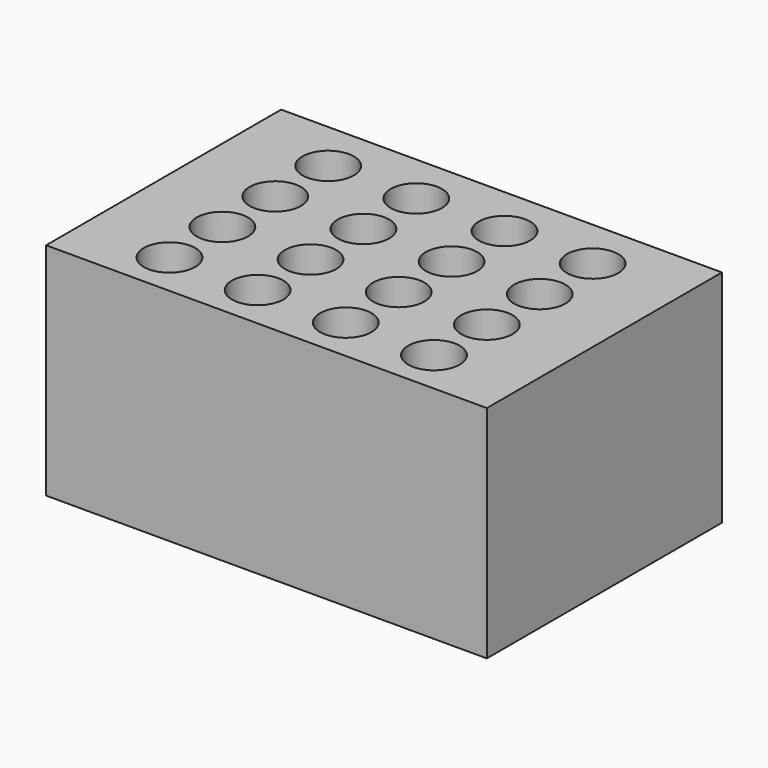
from build123d import *

# Parameters (mm, degrees)
F0_W     = 152.4
F0_H     = 101.6
F0_R     = 8.89
F1_DEPTH = 2.5
F2_DEPTH = 76.2
F4_W     = 142.24
F4_H     = 91.44
F4_R     = 10.16
F5_DEPTH = 69.85


with BuildPart() as f1:
    # F0 (on Top) → F1 (new body)
    with BuildSketch(Plane.XY):
        with Locations((0.2656728029, 1.1231710495)):
            Rectangle(F0_W, F0_H)
        with Locations((-45.4543271971, -34.4368289505)):
            Circle(F0_R, mode=Mode.SUBTRACT)
        with Locations((-14.9743271971, -34.4368289505)):
            Circle(F0_R, mode=Mode.SUBTRACT)
        with Locations((-45.4543271971, -11.5768289505)):
            Circle(F0_R, mode=Mode.SUBTRACT)
        with Locations((-14.9743271971, -11.5768289505)):
            Circle(F0_R, mode=Mode.SUBTRACT)
        with Locations((15.5056728029, -34.4368289505)):
            Circle(F0_R, mode=Mode.SUBTRACT)
        with Locations((45.9856728029, -34.4368289505)):
            Circle(F0_R, mode=Mode.SUBTRACT)
        with Locations((15.5056728029, -11.5768289505)):
            Circle(F0_R, mode=Mode.SUBTRACT)
        with Locations((45.9856728029, -11.5768289505)):
            Circle(F0_R, mode=Mode.SUBTRACT)
        with Locations((-45.4543271971, 11.2831710495)):
            Circle(F0_R, mode=Mode.SUBTRACT)
        with Locations((-14.9743271971, 11.2831710495)):
            Circle(F0_R, mode=Mode.SUBTRACT)
        with Locations((-45.4543271971, 34.1431710495)):
            Circle(F0_R, mode=Mode.SUBTRACT)
        with Locations((-14.9743271971, 34.1431710495)):
            Circle(F0_R, mode=Mode.SUBTRACT)
        with Locations((15.5056728029, 11.2831710495)):
            Circle(F0_R, mode=Mode.SUBTRACT)
        with Locations((45.9856728029, 11.2831710495)):
            Circle(F0_R, mode=Mode.SUBTRACT)
        with Locations((15.5056728029, 34.1431710495)):
            Circle(F0_R, mode=Mode.SUBTRACT)
        with Locations((45.9856728029, 34.1431710495)):
            Circle(F0_R, mode=Mode.SUBTRACT)
        with Locations((-45.4543271971, -34.4368289505)):
            Circle(F0_R)
        with Locations((-14.9743271971, -34.4368289505)):
            Circle(F0_R)
        with Locations((-14.9743271971, -11.5768289505)):
            Circle(F0_R)
        with Locations((-45.4543271971, -11.5768289505)):
            Circle(F0_R)
        with Locations((-45.4543271971, 11.2831710495)):
            Circle(F0_R)
        with Locations((-45.4543271971, 34.1431710495)):
            Circle(F0_R)
        with Locations((-14.9743271971, 34.1431710495)):
            Circle(F0_R)
        with Locations((-14.9743271971, 11.2831710495)):
            Circle(F0_R)
        with Locations((15.5056728029, 34.1431710495)):
            Circle(F0_R)
        with Locations((15.5056728029, 11.2831710495)):
            Circle(F0_R)
        with Locations((15.5056728029, -11.5768289505)):
            Circle(F0_R)
        with Locations((15.5056728029, -34.4368289505)):
            Circle(F0_R)
        with Locations((45.9856728029, -34.4368289505)):
            Circle(F0_R)
        with Locations((45.9856728029, -11.5768289505)):
            Circle(F0_R)
        with Locations((45.9856728029, 11.2831710495)):
            Circle(F0_R)
        with Locations((45.9856728029, 34.1431710495)):
            Circle(F0_R)
    extrude(amount=F1_DEPTH)

    # F0 (on Top) → F2 (join)
    with BuildSketch(Plane.XY):
        with Locations((0.2656728029, 1.1231710495)):
            Rectangle(F0_W, F0_H)
        with Locations((-45.4543271971, -34.4368289505)):
            Circle(F0_R, mode=Mode.SUBTRACT)
        with Locations((-14.9743271971, -34.4368289505)):
            Circle(F0_R, mode=Mode.SUBTRACT)
        with Locations((-45.4543271971, -11.5768289505)):
            Circle(F0_R, mode=Mode.SUBTRACT)
        with Locations((-14.9743271971, -11.5768289505)):
            Circle(F0_R, mode=Mode.SUBTRACT)
        with Locations((15.5056728029, -34.4368289505)):
            Circle(F0_R, mode=Mode.SUBTRACT)
        with Locations((45.9856728029, -34.4368289505)):
            Circle(F0_R, mode=Mode.SUBTRACT)
        with Locations((15.5056728029, -11.5768289505)):
            Circle(F0_R, mode=Mode.SUBTRACT)
        with Locations((45.9856728029, -11.5768289505)):
            Circle(F0_R, mode=Mode.SUBTRACT)
        with Locations((-45.4543271971, 11.2831710495)):
            Circle(F0_R, mode=Mode.SUBTRACT)
        with Locations((-14.9743271971, 11.2831710495)):
            Circle(F0_R, mode=Mode.SUBTRACT)
        with Locations((-45.4543271971, 34.1431710495)):
            Circle(F0_R, mode=Mode.SUBTRACT)
        with Locations((-14.9743271971, 34.1431710495)):
            Circle(F0_R, mode=Mode.SUBTRACT)
        with Locations((15.5056728029, 11.2831710495)):
            Circle(F0_R, mode=Mode.SUBTRACT)
        with Locations((45.9856728029, 11.2831710495)):
            Circle(F0_R, mode=Mode.SUBTRACT)
        with Locations((15.5056728029, 34.1431710495)):
            Circle(F0_R, mode=Mode.SUBTRACT)
        with Locations((45.9856728029, 34.1431710495)):
            Circle(F0_R, mode=Mode.SUBTRACT)
    extrude(amount=F2_DEPTH)

    # F4 (on face) → F5 (cut)
    with BuildSketch(Plane.XY):
        Rectangle(F4_W, F4_H)
        with Locations((-45.4543271971, -34.4368289505)):
            Circle(F4_R, mode=Mode.SUBTRACT)
        with Locations((-14.9743271971, -34.4368289505)):
            Circle(F4_R, mode=Mode.SUBTRACT)
        with Locations((-45.4543271971, -11.5768289505)):
            Circle(F4_R, mode=Mode.SUBTRACT)
        with Locations((-14.9743271971, -11.5768289505)):
            Circle(F4_R, mode=Mode.SUBTRACT)
        with Locations((15.5056728029, -34.4368289505)):
            Circle(F4_R, mode=Mode.SUBTRACT)
        with Locations((45.9856728029, -34.4368289505)):
            Circle(F4_R, mode=Mode.SUBTRACT)
        with Locations((15.5056728029, -11.5768289505)):
            Circle(F4_R, mode=Mode.SUBTRACT)
        with Locations((45.9856728029, -11.5768289505)):
            Circle(F4_R, mode=Mode.SUBTRACT)
        with Locations((-45.4543271971, 11.2831710495)):
            Circle(F4_R, mode=Mode.SUBTRACT)
        with Locations((-14.9743271971, 11.2831710495)):
            Circle(F4_R, mode=Mode.SUBTRACT)
        with Locations((-45.4543271971, 34.1431710495)):
            Circle(F4_R, mode=Mode.SUBTRACT)
        with BuildLine():
            ThreePointArc((-4.8143271971, 34.1431710495), (-14.9743271971, 23.9831710495), (-25.1343271971, 34.1431710495))
            ThreePointArc((-25.1343271971, 34.1431710495), (-14.9743271971, 44.3031710495), (-4.8143271971, 34.1431710495))
        make_face(mode=Mode.SUBTRACT)
        with Locations((15.5056728029, 11.2831710495)):
            Circle(F4_R, mode=Mode.SUBTRACT)
        with Locations((45.9856728029, 11.2831710495)):
            Circle(F4_R, mode=Mode.SUBTRACT)
        with Locations((15.5056728029, 34.1431710495)):
            Circle(F4_R, mode=Mode.SUBTRACT)
        with Locations((45.9856728029, 34.1431710495)):
            Circle(F4_R, mode=Mode.SUBTRACT)
    extrude(amount=F5_DEPTH, mode=Mode.SUBTRACT)


solid = f1.part
